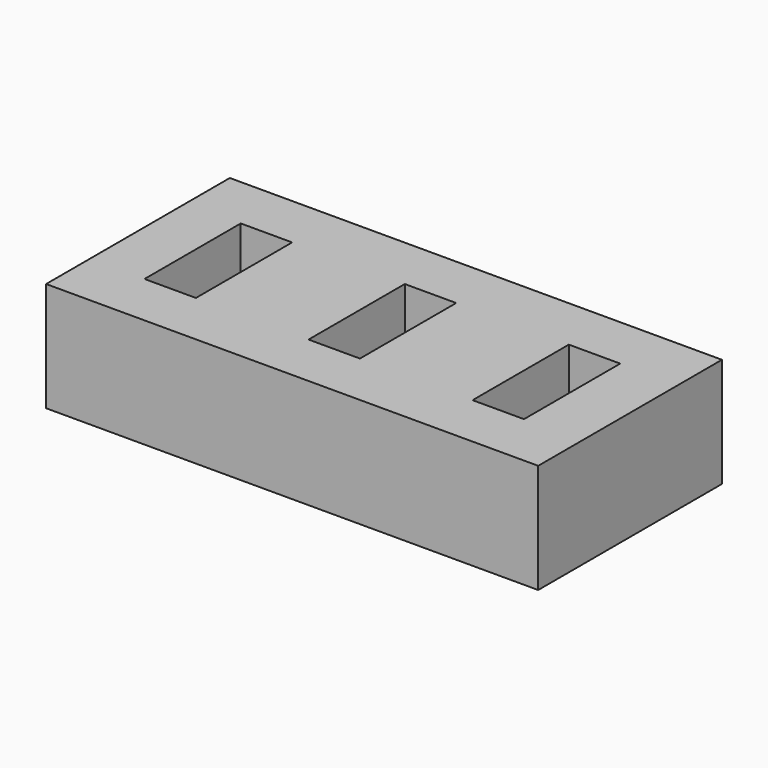
from build123d import *

# Parameters (mm, degrees)
BOX001_W     = 4.7
BOX001_H     = 11
BOX001_DEPTH = 12
BOX002_W     = 4.7
BOX002_H     = 11
BOX002_DEPTH = 12
BOX_W        = 4.7
BOX_H        = 11
BOX_DEPTH    = 12
BOX003_W     = 45
BOX003_H     = 21
BOX003_DEPTH = 10


with BuildPart() as slot001:
    # Box001 → Box001 (new body)
    with BuildSketch(Plane(origin=(15, 0, 0), x_dir=(1, 0, 0), z_dir=(0, 0, 1))):
        with Locations((2.35, 5.5)):
            Rectangle(BOX001_W, BOX001_H)
    extrude(amount=BOX001_DEPTH)


with BuildPart() as slot002:
    # Box002 → Box002 (new body)
    with BuildSketch(Plane(origin=(30, 0, 0), x_dir=(1, 0, 0), z_dir=(0, 0, 1))):
        with Locations((2.35, 5.5)):
            Rectangle(BOX002_W, BOX002_H)
    extrude(amount=BOX002_DEPTH)


with BuildPart() as slots:
    # Box → Box (new body)
    with BuildSketch(Plane.XY):
        with Locations((2.35, 5.5)):
            Rectangle(BOX_W, BOX_H)
    extrude(amount=BOX_DEPTH)

    # Fusion: union slot001, slot002
    add(slot001.part)
    add(slot002.part)


with BuildPart() as slots_1:
    # Fusion placement: moved
    add(slots.part.moved(Location((5, 5, 3))))


with BuildPart() as cut:
    # Box003 → Box003 (new body)
    with BuildSketch(Plane.XY):
        with Locations((22.5, 10.5)):
            Rectangle(BOX003_W, BOX003_H)
    extrude(amount=BOX003_DEPTH)

    # Cut: cut slots
    add(slots_1.part, mode=Mode.SUBTRACT)


solid = cut.part
